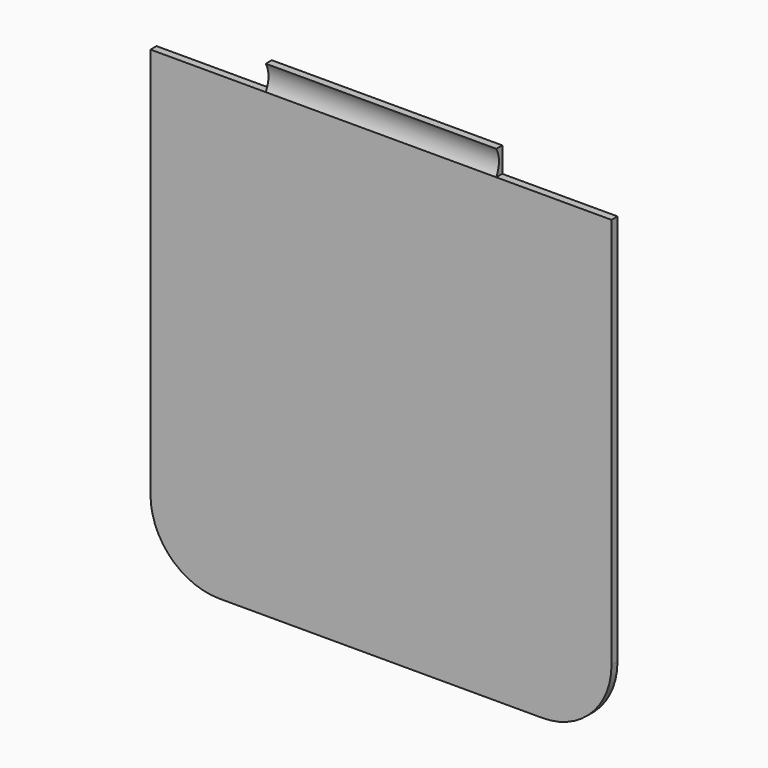
from build123d import *

# Parameters (mm, degrees)
F1_DEPTH = 3.81
F3_DEPTH = 359


with BuildPart() as f1:
    # F0 (on Front) → F1 (new body)
    with BuildSketch(Plane.XZ):
        with BuildLine():
            ThreePointArc((-116.743328, -81.743328), (-106.492065, -106.492065), (-81.743328, -116.743328))
            Line((-81.743328, -116.743328), (81.743328, -116.743328))
            ThreePointArc((81.743328, -116.743328), (106.492065, -106.492065), (116.743328, -81.743328))
            Line((116.743328, -81.743328), (116.743328, 116.743328))
            Line((116.743328, 116.743328), (58.37174, 116.743328))
            Line((58.37174, 116.743328), (58.37174, 129.443328))
            Line((58.37174, 129.443328), (-58.371588, 129.443328))
            Line((-58.371588, 129.443328), (-58.371588, 116.743328))
            Line((-58.371588, 116.743328), (-116.743328, 116.743328))
            Line((-116.743328, 116.743328), (-116.743328, -81.743328))
        make_face()
    extrude(amount=F1_DEPTH)

    # F2 (on face) → F3 (cut)
    with BuildSketch(Plane.YZ.offset(58.37174)):
        with BuildLine():
            Line((-3.81, 129.443328), (-3.81, 116.743328))
            ThreePointArc((-3.81, 116.743328), (-2.081784, 123.093328), (-3.81, 129.443328))
        make_face()
    extrude(amount=-F3_DEPTH, mode=Mode.SUBTRACT)


solid = f1.part
